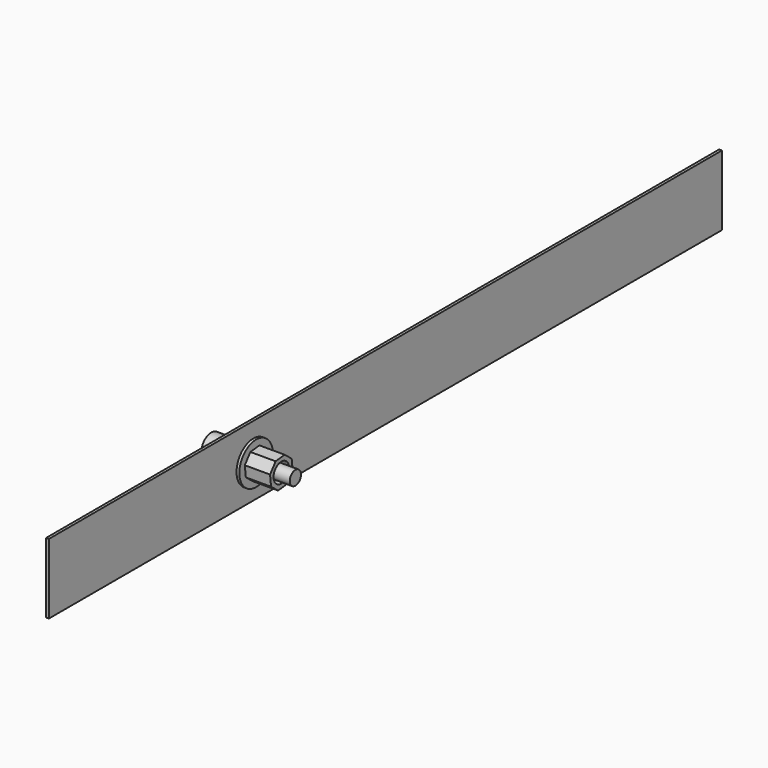
from build123d import *

# Parameters (mm, degrees)
F0_W      = 1
F0_H      = 300
F1_DEPTH  = 25
F3_D      = 8
F4_R      = 2.5
F5_DEPTH  = 15
F5_FACE_R = 2.5
F6_DEPTH  = 5
F7_R      = 7.620853
F7_R_2    = 3.352765
F8_DEPTH  = 1
F6_FACE_R = 2.5
F9_DEPTH  = 2
F10_R     = 4.468724
F11_DEPTH = 8
F12_R     = 7.47374
F12_R_2   = 3.45507
F13_DEPTH = 1
F14_R     = 3.469246
F15_DEPTH = 9


with BuildPart() as f1:
    # F0 (on Top) → F1 (new body)
    with BuildSketch(Plane.XY):
        with Locations((0.5, -150)):
            Rectangle(F0_W, F0_H)
    extrude(amount=F1_DEPTH)

    # F3 (through all)
    with Locations(Plane.YZ.offset(1)):
        with Locations((-208.879188, 12.025342)):
            Hole(F3_D / 2)

    # F12 (on face) → F13 (join)
    with BuildSketch(Plane.YZ.offset(1)):
        with Locations((-208.879188, 12.025342)):
            Circle(F12_R)
        with Locations((-208.879188, 12.025342)):
            Circle(F12_R_2, mode=Mode.SUBTRACT)
    extrude(amount=F13_DEPTH)

    # F14 (on face) → F15 (join)
    with BuildSketch(Plane.YZ.offset(2)):
        Polygon((-204.28697, 14.570275), (-207.431539, 17.07207), (-211.424121, 16.61756), (-213.925915, 13.472991), (-213.471405, 9.480409), (-210.326837, 6.978615), (-206.334255, 7.433125), (-203.83246, 10.577693), align=None)
        with Locations((-208.879188, 12.025342)):
            Circle(F14_R, mode=Mode.SUBTRACT)
    extrude(amount=F15_DEPTH)


with BuildPart() as f5:
    # F4 (on face) → F5 (new body)
    with BuildSketch(Plane.YZ.offset(1)):
        with Locations((-208.870985, 12.023521)):
            Circle(F4_R)
    extrude(amount=F5_DEPTH)

    # F5_face (on face) → F6 (join)
    with BuildSketch(Plane(origin=(1, -208.870985, 12.023521), x_dir=(0, 1, 0), z_dir=(-1, 0, 0))):
        Circle(F5_FACE_R)
    extrude(amount=F6_DEPTH)

    # F6_face (on face) → F9 (join)
    with BuildSketch(Plane(origin=(-4, -208.870985, 12.023521), x_dir=(0, 1, 0), z_dir=(-1, 0, 0))):
        Circle(F6_FACE_R)
    extrude(amount=F9_DEPTH)


with BuildPart() as f8:
    # F7 (on face) → F8 (new body)
    with BuildSketch(Plane(origin=(-4, 0, 0), x_dir=(0, -1, 0), z_dir=(-1, 0, 0))):
        with Locations((208.870985, 12.023521)):
            Circle(F7_R)
        with Locations((208.870985, 12.023521)):
            Circle(F7_R_2, mode=Mode.SUBTRACT)
    extrude(amount=F8_DEPTH)


with BuildPart() as f11:
    # F10 (on face) → F11 (new body)
    with BuildSketch(Plane(origin=(-6, 0, 0), x_dir=(0, -1, 0), z_dir=(-1, 0, 0))):
        with Locations((208.870985, 12.023521)):
            Circle(F10_R)
    extrude(amount=F11_DEPTH)


solid = Compound([f1.part, f5.part, f8.part, f11.part])
